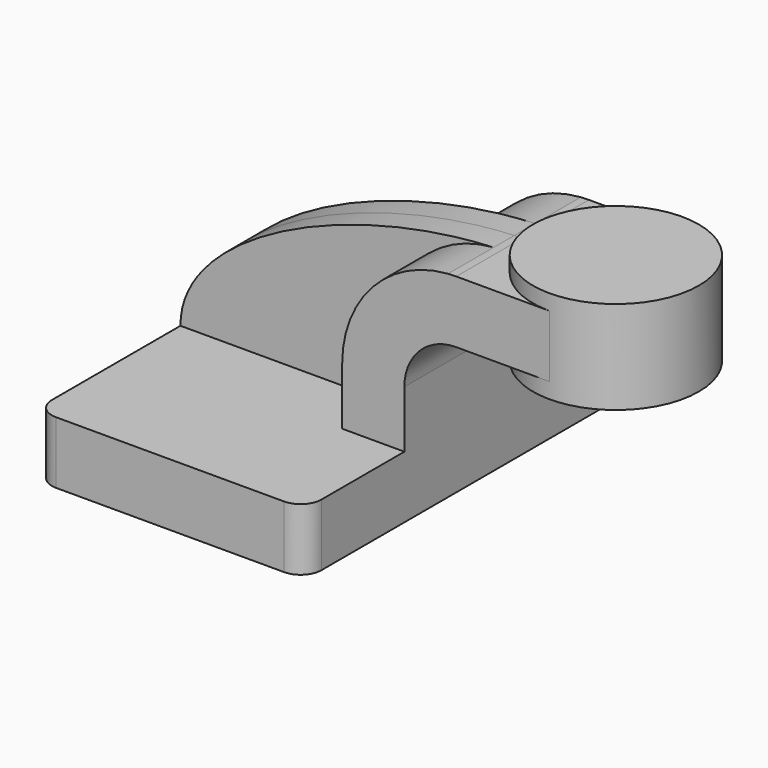
from build123d import *

# Parameters (mm, degrees)
F1_DEPTH = 63.5
F0_W     = 25.4
F0_H     = 19.05
F2_DEPTH = 25.4
F3_DEPTH = 7.9375
F5_R     = 6.35


with BuildPart() as f1:
    # F0 (on Front) → F1 (new body, symmetric)
    with BuildSketch(Plane.XZ):
        Polygon((22.225, 9.525), (-41.275, 9.525), (-41.275, -9.525), (41.275, -9.525), (41.275, 9.525), align=None)
    extrude(amount=F1_DEPTH, both=True)

    # F0 (on Front) → F2 (join, symmetric)
    with BuildSketch(Plane.XZ):
        with BuildLine():
            Line((22.225, 27.0002), (22.225, 9.525))
            Line((22.225, 9.525), (41.275, 9.525))
            Line((41.275, 9.525), (41.275, 27.0002))
            ThreePointArc((41.275, 27.0002), (45.9246798487, 38.2255201513), (57.15, 42.8752))
            Line((57.15, 42.8752), (60.325, 42.8752))
            Line((60.325, 42.8752), (60.325, 61.9252))
            Line((60.325, 61.9252), (57.15, 61.9252))
            add(Edge.make_bspline(
                [(54.638823753, 61.8348037563), (55.4776769028, 61.8722770374), (56.3148513776, 61.9024473643), (57.15, 61.9252)],
                knots=[109.4876133849, 109.4876133849, 109.4876133849, 109.4876133849, 111.5045361635, 111.5045361635, 111.5045361635, 111.5045361635], degree=3))
            ThreePointArc((54.638823753, 61.8348037563), (31.5818708601, 50.7915092806), (22.225, 27.0002))
        make_face()
        with Locations((73.025, 52.4002)):
            Rectangle(F0_W, F0_H)
        with Locations((73.025, 52.4002)):
            Rectangle(F0_W, F0_H)
    extrude(amount=F2_DEPTH, both=True)

    # F0 (on Front) → F3 (join, symmetric)
    with BuildSketch(Plane.XZ):
        with BuildLine():
            add(Edge.make_bspline(
                [(-41.275, 9.525), (-41.3813263871, 36.2459845146), (9.1021129136, 59.800586009), (54.638823753, 61.8348037563)],
                knots=[0, 0, 0, 0, 109.4876133849, 109.4876133849, 109.4876133849, 109.4876133849], degree=3))
            Line((-41.275, 9.525), (22.225, 9.525))
            Line((22.225, 9.525), (22.225, 27.0002))
            ThreePointArc((22.225, 27.0002), (31.5818708601, 50.7915092806), (54.638823753, 61.8348037563))
        make_face()
    extrude(amount=F3_DEPTH, both=True)

    # F5
    f5_edges = [f1.edges().sort_by_distance(p)[0] for p in [
        (41.275, -63.5, 0),
        (-41.275, -63.5, 0),
        (-41.275, 63.5, 0),
        (41.275, 63.5, 0),
    ]]
    fillet(f5_edges, radius=F5_R)


with BuildPart() as f4:
    # F0 (on Front) → F4 (revolve)
    with BuildSketch(Plane.XZ):
        Polygon((85.725, 66.675), (85.725, 61.9252), (85.725, 42.8752), (85.725, 38.1), (111.125, 38.1), (111.125, 66.675), align=None)
    revolve(axis=Axis((85.725, 0, 52.4002), (0, 0, -1)))


solid = Compound([f1.part, f4.part])
